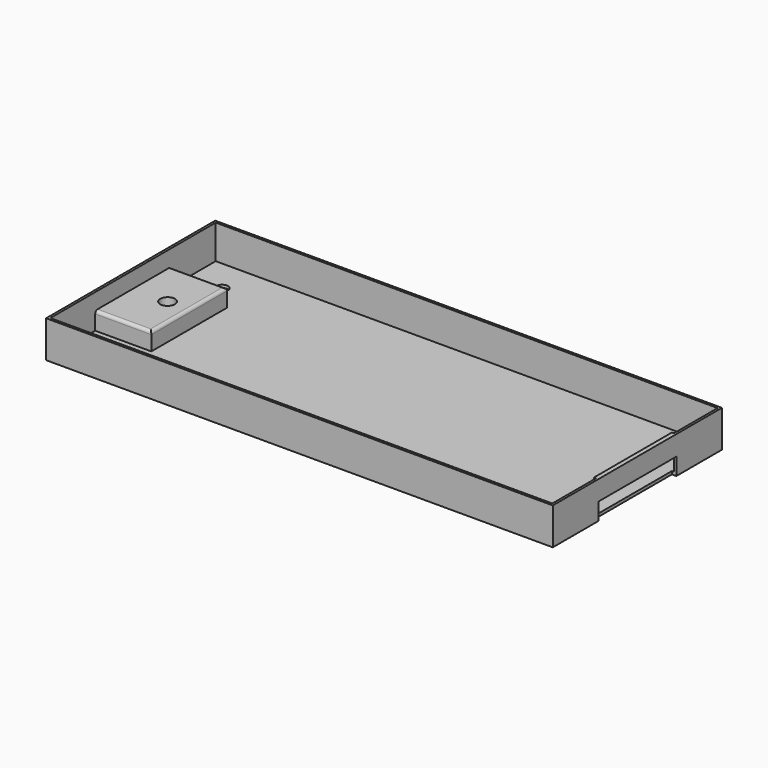
from build123d import *

# Parameters (mm, degrees)
F0_R     = 2
F0_W     = 19
F0_H     = 32
F0_R_2   = 2.5
F1_DEPTH = 1
F2_DEPTH = 7
F0_W_2   = 0.8
F0_H_2   = 33
F0_W_3   = 0.7
F3_DEPTH = 12.5
F4_DEPTH = 5.8
F5_R     = 1


with BuildPart() as f1:
    # F0 (on Top) → F1 (new body)
    with BuildSketch(Plane.XY):
        Polygon((85, 35), (-85, 35), (-85, 16), (-66, 16), (-66, -16), (-85, -16), (-85, -35), (85, -35), (85, -16.5), (84.3, -16.5), (84.3, 16.5), (85, 16.5), align=None)
        with Locations((-74, -24)):
            Circle(F0_R, mode=Mode.SUBTRACT)
        with Locations((74, -24)):
            Circle(F0_R, mode=Mode.SUBTRACT)
        with Locations((-74, 24)):
            Circle(F0_R, mode=Mode.SUBTRACT)
        with Locations((74, 24)):
            Circle(F0_R, mode=Mode.SUBTRACT)
        with Locations((-75.5, 0)):
            Rectangle(F0_W, F0_H)
        with Locations((-73.3, 0)):
            Circle(F0_R_2, mode=Mode.SUBTRACT)
    extrude(amount=F1_DEPTH)

    # F0 (on Top) → F2 (join)
    with BuildSketch(Plane.XY):
        with Locations((-75.5, 0)):
            Rectangle(F0_W, F0_H)
        with Locations((-73.3, 0)):
            Circle(F0_R_2, mode=Mode.SUBTRACT)
    extrude(amount=F2_DEPTH)

    # F0 (on Top) → F3 (join)
    with BuildSketch(Plane.XY):
        Polygon((-85, 16), (-85, 35), (85, 35), (85, 16.5), (85.8, 16.5), (85.8, 35.8), (-85.8, 35.8), (-85.8, -35.8), (85.8, -35.8), (85.8, -16.5), (85, -16.5), (85, -35), (-85, -35), (-85, -16), align=None)
        with Locations((85.4, 0)):
            Rectangle(F0_W_2, F0_H_2)
        with Locations((84.65, 0)):
            Rectangle(F0_W_3, F0_H_2)
    extrude(amount=F3_DEPTH)

    # F0 (on Top) → F4 (cut)
    with BuildSketch(Plane.XY):
        with Locations((85.4, 0)):
            Rectangle(F0_W_2, F0_H_2)
        with Locations((84.65, 0)):
            Rectangle(F0_W_3, F0_H_2)
    extrude(amount=F4_DEPTH, mode=Mode.SUBTRACT)

    # F5
    f5_edges = [f1.edges().sort_by_distance(p)[0] for p in [
        (-75.5, -16, 7),
        (-75.5, 16, 7),
        (-66, 0, 7),
    ]]
    fillet(f5_edges, radius=F5_R)


solid = f1.part
